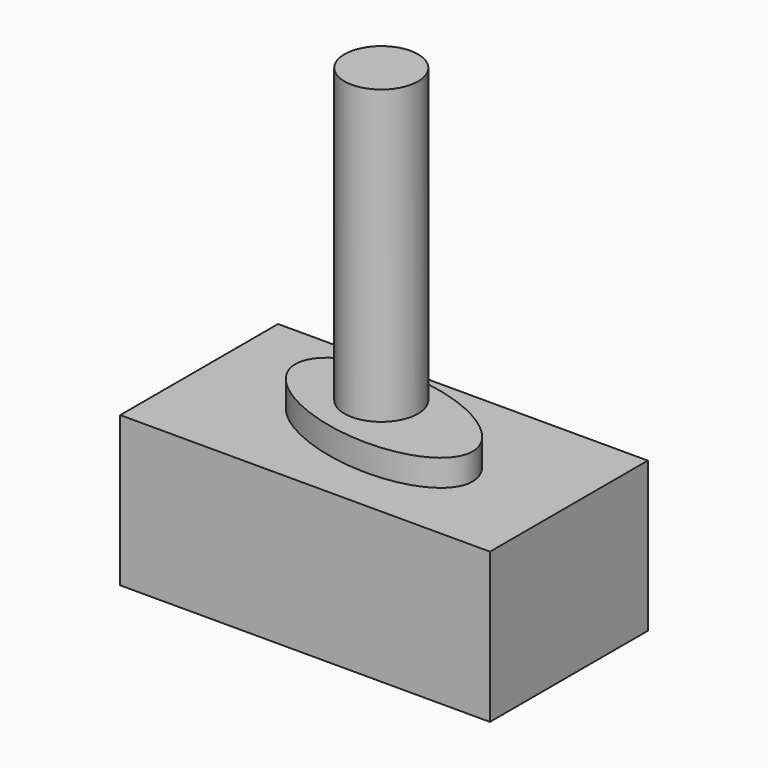
from build123d import *

# Parameters (mm, degrees)
F0_W     = 156.015798
F0_H     = 83.234488
F1_DEPTH = 31.623
F3_DEPTH = 11.176
F4_R     = 15.516402
F5_DEPTH = 123.444


with BuildPart() as f1:
    # F0 (on Top) → F1 (new body, symmetric)
    with BuildSketch(Plane.XY):
        Rectangle(F0_W, F0_H)
    extrude(amount=F1_DEPTH, both=True)

    # F2 (on face) → F3 (join)
    with BuildSketch(Plane.XY.offset(31.623)):
        with BuildLine():
            add(Edge.make_bspline(
                [(42.055041, -8.328438), (49.456989, 29.048226), (-17.326546, 22.852551), (-84.110081, 16.656876), (-24.728494, -14.524113), (34.653093, -45.705102), (42.055041, -8.328438)],
                knots=[0, 0, 0, 2.094395, 2.094395, 4.18879, 4.18879, 6.283185, 6.283185, 6.283185], degree=2, weights=[1, 0.5, 1, 0.5, 1, 0.5, 1]))
        make_face()
    extrude(amount=F3_DEPTH)

    # F4 (on face) → F5 (join)
    with BuildSketch(Plane.XY.offset(42.799)):
        with Locations((-4.093342, 3.676504)):
            Circle(F4_R)
    extrude(amount=F5_DEPTH)


solid = f1.part
